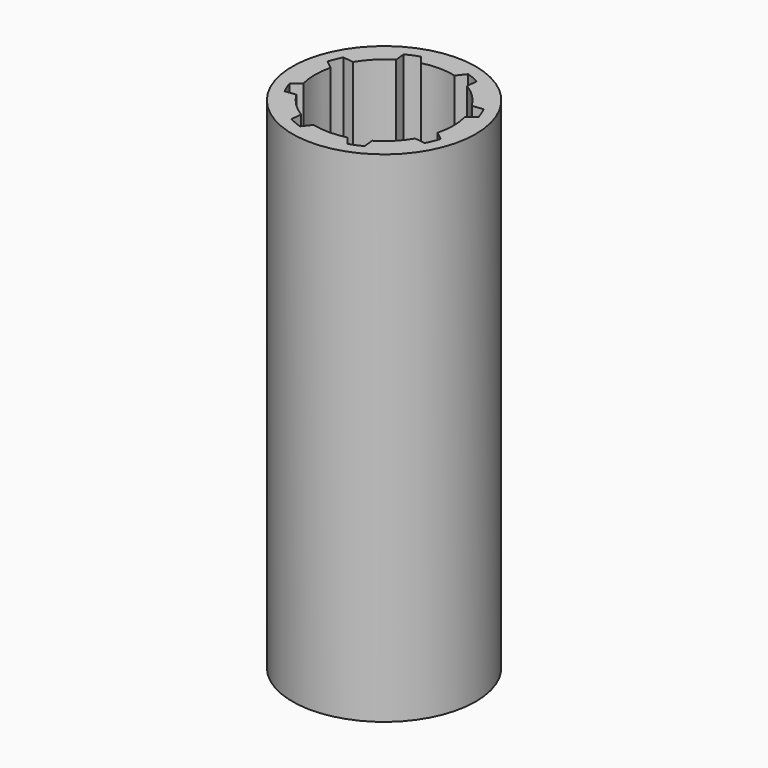
from build123d import *

# Parameters (mm, degrees)
F0_R     = 5.5
F1_DEPTH = 30


with BuildPart() as f1:
    # F0 (on Top) → F1 (new body)
    with BuildSketch(Plane.XY):
        Circle(F0_R)
        with BuildLine():
            ThreePointArc((4.532716, 1.420206), (4.695365, 0.718366), (4.75, 0))
            ThreePointArc((4.75, 0), (4.695365, -0.718366), (4.532716, -1.420206))
            ThreePointArc((4.532716, -1.420206), (4.388428, -1.817746), (4.209352, -2.200877))
            ThreePointArc((4.209352, -2.200877), (3.358757, -3.358757), (2.200877, -4.209352))
            ThreePointArc((2.200877, -4.209352), (1.817746, -4.388428), (1.420206, -4.532716))
            ThreePointArc((1.420206, -4.532716), (0, -4.75), (-1.420206, -4.532716))
            ThreePointArc((-1.420206, -4.532716), (-1.817746, -4.388428), (-2.200877, -4.209352))
            ThreePointArc((-2.200877, -4.209352), (-3.358757, -3.358757), (-4.209352, -2.200877))
            ThreePointArc((-4.209352, -2.200877), (-4.388428, -1.817746), (-4.532716, -1.420206))
            ThreePointArc((-4.532716, -1.420206), (-4.75, 0), (-4.532716, 1.420206))
            ThreePointArc((-4.532716, 1.420206), (-4.388428, 1.817746), (-4.209352, 2.200877))
            ThreePointArc((-4.209352, 2.200877), (-3.358757, 3.358757), (-2.200877, 4.209352))
            ThreePointArc((-2.200877, 4.209352), (-1.817746, 4.388428), (-1.420206, 4.532716))
            ThreePointArc((-1.420206, 4.532716), (0, 4.75), (1.420206, 4.532716))
            ThreePointArc((1.420206, 4.532716), (1.817746, 4.388428), (2.200877, 4.209352))
            ThreePointArc((2.200877, 4.209352), (3.358757, 3.358757), (4.209352, 2.200877))
            ThreePointArc((4.209352, 2.200877), (4.388428, 1.817746), (4.532716, 1.420206))
        make_face(mode=Mode.SUBTRACT)
        with BuildLine():
            Line((-4.023495, 1.016852), (-4.532716, 1.420206))
            ThreePointArc((-4.532716, 1.420206), (-4.75, 0), (-4.532716, -1.420206))
            Line((-4.532716, -1.420206), (-4.023495, -1.016852))
            ThreePointArc((-4.023495, -1.016852), (-4.15, 0), (-4.023495, 1.016852))
        make_face()
        with BuildLine():
            Line((-2.126017, 3.564064), (-2.200877, 4.209352))
            ThreePointArc((-2.200877, 4.209352), (-3.358757, 3.358757), (-4.209352, 2.200877))
            Line((-4.209352, 2.200877), (-3.564064, 2.126017))
            ThreePointArc((-3.564064, 2.126017), (-2.934493, 2.934493), (-2.126017, 3.564064))
        make_face()
        with BuildLine():
            Line((1.016852, 4.023495), (1.420206, 4.532716))
            ThreePointArc((1.420206, 4.532716), (0, 4.75), (-1.420206, 4.532716))
            Line((-1.420206, 4.532716), (-1.016852, 4.023495))
            ThreePointArc((-1.016852, 4.023495), (0, 4.15), (1.016852, 4.023495))
        make_face()
        with BuildLine():
            Line((3.564064, 2.126017), (4.209352, 2.200877))
            ThreePointArc((4.209352, 2.200877), (3.358757, 3.358757), (2.200877, 4.209352))
            Line((2.200877, 4.209352), (2.126017, 3.564064))
            ThreePointArc((2.126017, 3.564064), (2.934493, 2.934493), (3.564064, 2.126017))
        make_face()
        with BuildLine():
            ThreePointArc((4.532716, -1.420206), (4.695365, -0.718366), (4.75, 0))
            ThreePointArc((4.75, 0), (4.695365, 0.718366), (4.532716, 1.420206))
            Line((4.532716, 1.420206), (4.023495, 1.016852))
            ThreePointArc((4.023495, 1.016852), (4.15, 0), (4.023495, -1.016852))
            Line((4.023495, -1.016852), (4.532716, -1.420206))
        make_face()
        with BuildLine():
            ThreePointArc((2.200877, -4.209352), (3.358757, -3.358757), (4.209352, -2.200877))
            Line((4.209352, -2.200877), (3.564064, -2.126017))
            ThreePointArc((3.564064, -2.126017), (2.934493, -2.934493), (2.126017, -3.564064))
            Line((2.126017, -3.564064), (2.200877, -4.209352))
        make_face()
        with BuildLine():
            ThreePointArc((-1.420206, -4.532716), (0, -4.75), (1.420206, -4.532716))
            Line((1.420206, -4.532716), (1.016852, -4.023495))
            ThreePointArc((1.016852, -4.023495), (0, -4.15), (-1.016852, -4.023495))
            Line((-1.016852, -4.023495), (-1.420206, -4.532716))
        make_face()
        with BuildLine():
            ThreePointArc((-4.209352, -2.200877), (-3.358757, -3.358757), (-2.200877, -4.209352))
            Line((-2.200877, -4.209352), (-2.126017, -3.564064))
            ThreePointArc((-2.126017, -3.564064), (-2.934493, -2.934493), (-3.564064, -2.126017))
            Line((-3.564064, -2.126017), (-4.209352, -2.200877))
        make_face()
    extrude(amount=F1_DEPTH)


solid = f1.part
